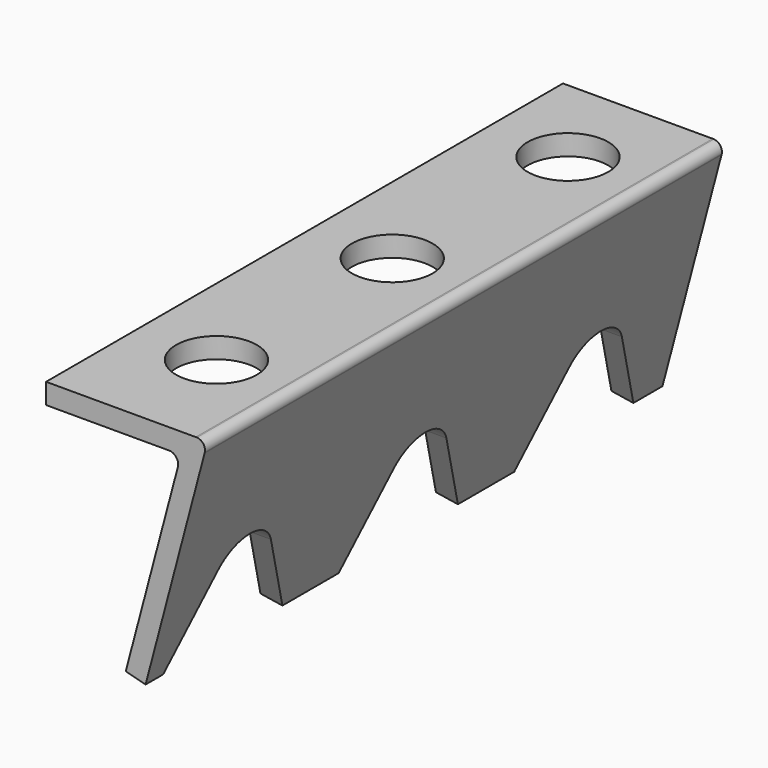
from build123d import *

# Parameters (mm, degrees)
F1_DEPTH      = 50.8
F3_DEPTH      = 25.4
F3_DEPTH_BACK = 25.4
F4_R          = 3.175
F5_DEPTH      = 1.6129


with BuildPart() as f1:
    # F0 (on Front) → F1 (new body)
    with BuildSketch(Plane.XZ):
        with BuildLine():
            Line((2.2765197791, 8.5634865664), (-9.489294471, 8.5634865664))
            Line((-9.489294471, 8.5634865664), (-9.489294471, 6.9505865664))
            Line((-9.489294471, 6.9505865664), (0, 6.9505865664))
            ThreePointArc((0, 6.9505865664), (0.1429068283, 6.9642762789), (0.2858136566, 6.9505865664))
            ThreePointArc((0.2858136566, 6.9505865664), (0.7644025503, 6.6362301957), (0.8833758177, 6.0761296524))
            Line((0.8833758177, 6.0761296524), (-3.2259208163, -9.4385629753))
            Line((-3.2259208163, -9.4385629753), (-1.6667832808, -9.8515236945))
            Line((-1.6667832808, -9.8515236945), (2.9753029463, 7.6747216416))
            Line((2.9753029463, 7.6747216416), (2.993829025, 7.7446670463))
            ThreePointArc((2.993829025, 7.7446670463), (2.8710717472, 8.2939064661), (2.3770475991, 8.5634865664))
            Line((2.3770475991, 8.5634865664), (2.2765197791, 8.5634865664))
        make_face()
        with BuildLine():
            ThreePointArc((2.3770475991, 8.5634865664), (2.3267836891, 8.5653429014), (2.2765197791, 8.5634865664))
            Line((2.2765197791, 8.5634865664), (2.3770475991, 8.5634865664))
        make_face()
        with BuildLine():
            ThreePointArc((0.2858136566, 6.9505865664), (0.1429068283, 6.9642762789), (0, 6.9505865664))
            Line((0, 6.9505865664), (0.2858136566, 6.9505865664))
        make_face()
        with BuildLine():
            ThreePointArc((2.9753029463, 7.6747216416), (2.9854950368, 7.709448271), (2.993829025, 7.7446670463))
            Line((2.993829025, 7.7446670463), (2.9753029463, 7.6747216416))
        make_face()
    extrude(amount=F1_DEPTH)

    # F2 (on Right) → F3 (cut, two sides)
    with BuildSketch(Plane.YZ) as f3_sk:
        with BuildLine():
            Line((-45.7992069423, -3.3815500792), (-49.0718819201, -9.8507925868))
            Line((-49.0718819201, -9.8507925868), (-37.2894648818, -9.9727063475))
            Line((-37.2894648818, -9.9727063475), (-40.6238138676, -3.3815500792))
            ThreePointArc((-40.6238138676, -3.3815500792), (-43.2115104049, -1.7906479393), (-45.7992069423, -3.3815500792))
        make_face()
        with BuildLine():
            Line((-20.0428648818, -9.9727063475), (-23.3772138676, -3.3815500792))
            ThreePointArc((-23.3772138676, -3.3815500792), (-25.9649104049, -1.7906479393), (-28.5526069423, -3.3815500792))
            Line((-28.5526069423, -3.3815500792), (-31.8252819201, -9.8507925868))
            Line((-31.8252819201, -9.8507925868), (-20.0428648818, -9.9727063475))
        make_face()
        with BuildLine():
            Line((-2.7962648818, -9.9727063475), (-6.1306138676, -3.3815500792))
            ThreePointArc((-6.1306138676, -3.3815500792), (-8.7183104049, -1.7906479393), (-11.3060069423, -3.3815500792))
            Line((-11.3060069423, -3.3815500792), (-14.5786819201, -9.8507925868))
            Line((-14.5786819201, -9.8507925868), (-2.7962648818, -9.9727063475))
        make_face()
    extrude(amount=-F3_DEPTH, mode=Mode.SUBTRACT)
    extrude(f3_sk.sketch, amount=F3_DEPTH_BACK, mode=Mode.SUBTRACT)

    # F4 (on face) → F5 (cut, through all)
    with BuildSketch(Plane.XY.offset(8.5634865664)):
        with Locations((-3.139294471, -7.4458811432)):
            Circle(F4_R)
        with Locations((-3.139294471, -24.7178811432)):
            Circle(F4_R)
        with Locations((-3.139294471, -41.9898811432)):
            Circle(F4_R)
    extrude(amount=-F5_DEPTH, mode=Mode.SUBTRACT)


solid = f1.part
